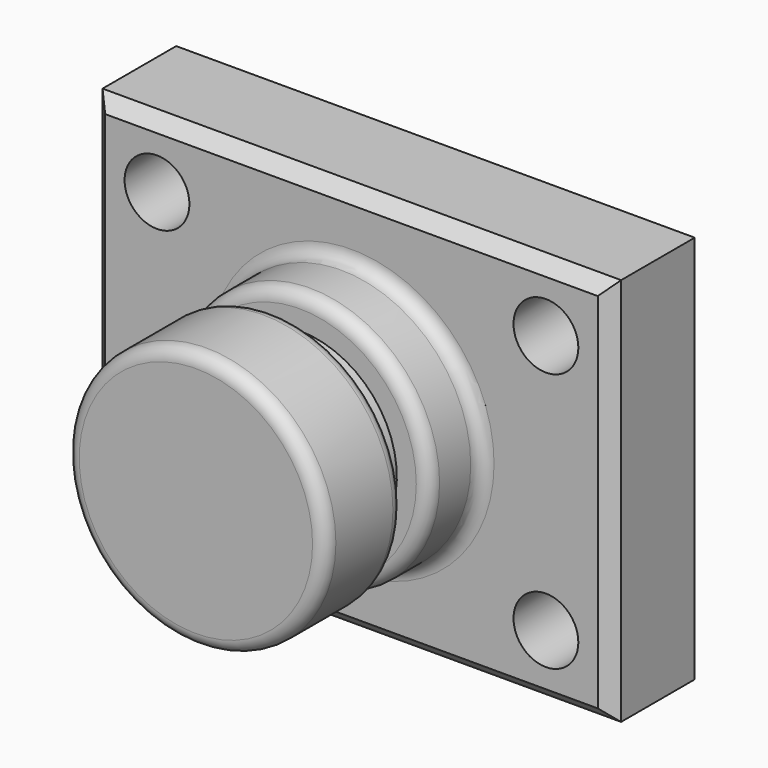
from build123d import *

# Parameters (mm, degrees)
F0_W     = 101.6
F0_H     = 76.2
F1_DEPTH = 20.574
F2_R     = 6.35
F3_DEPTH = 25.4
F4_W     = 25.4
F4_H     = 38.1
F6_W     = 6.35
F6_H     = 14.2712268918
F8_SIZE  = 2.54
F9_R     = 2.54
F10_R    = 2.54


with BuildPart() as f1:
    # F0 (on Front) → F1 (new body)
    with BuildSketch(Plane.XZ):
        Rectangle(F0_W, F0_H)
    extrude(amount=F1_DEPTH)

    # F2 (on face) → F3 (cut)
    with BuildSketch(Plane.XZ.offset(20.574)):
        with Locations((38.1, -25.4)):
            Circle(F2_R)
        with Locations((-38.1, -25.4)):
            Circle(F2_R)
        with Locations((-38.1, 25.4)):
            Circle(F2_R)
        with Locations((38.1, 25.4)):
            Circle(F2_R)
    extrude(amount=-F3_DEPTH, mode=Mode.SUBTRACT)

    # F4 (on Top) → F5 (revolve)
    with BuildSketch(Plane.XY):
        with Locations((12.7, -39.624)):
            Rectangle(F4_W, F4_H)
    revolve(axis=Axis((0, -39.624, 0), (0, 1, 0)))

    # F6 (on Right) → F7 (revolve, cut)
    with BuildSketch(Plane.YZ):
        with Locations((-36.449, 26.1856134459)):
            Rectangle(F6_W, F6_H)
    revolve(axis=Axis((0, -58.674, 0), (0, 1, 0)), mode=Mode.SUBTRACT)

    # F8
    f8_edges = [f1.edges().sort_by_distance(p)[0] for p in [
        (0, -20.574, 38.1),
        (50.8, -20.574, 0),
        (0, -20.574, -38.1),
        (-50.8, -20.574, 0),
    ]]
    chamfer(f8_edges, length=F8_SIZE)

    # F9
    f9_edges = [f1.edges().sort_by_distance(p)[0] for p in [
        (-25.4, -20.574, 0),
        (-25.4, -33.274, 0),
        (-25.4, -39.624, 0),
    ]]
    fillet(f9_edges, radius=F9_R)

    # F10
    f10_edges = [f1.edges().sort_by_distance(p)[0] for p in [
        (-25.4, -58.674, 0),
    ]]
    fillet(f10_edges, radius=F10_R)


solid = f1.part
